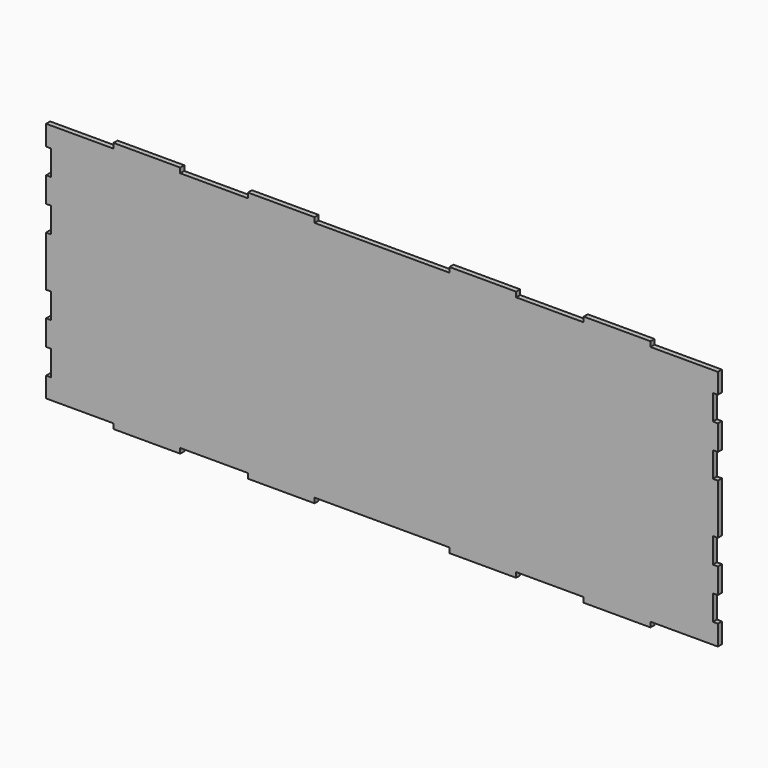
from build123d import *

# Parameters (mm, degrees)
F1_DEPTH = 3


with BuildPart() as f1:
    # F0 (on Front) → F1 (new body)
    with BuildSketch(Plane.XZ):
        Polygon((-159.875, -72), (-159.875, -75), (-120.125, -75), (-120.125, -72), (-79.875, -72), (-79.875, -75), (-40.125, -75), (-40.125, -72), (40.125, -72), (40.125, -75), (79.875, -75), (79.875, -72), (120.125, -72), (120.125, -75), (159.875, -75), (159.875, -72), (200, -72), (200, -60), (197, -60), (197, -45), (200, -45), (200, -30), (197, -30), (197, -15), (200, -15), (200, 15), (197, 15), (197, 30), (200, 30), (200, 45), (197, 45), (197, 60), (200, 60), (200, 72), (159.875, 72), (159.875, 75), (120.125, 75), (120.125, 72), (79.875, 72), (79.875, 75), (40.125, 75), (40.125, 72), (-40.125, 72), (-40.125, 75), (-79.875, 75), (-79.875, 72), (-120.125, 72), (-120.125, 75), (-159.875, 75), (-159.875, 72), (-200, 72), (-200, 60), (-197, 60), (-197, 45), (-200, 45), (-200, 30), (-197, 30), (-197, 15), (-200, 15), (-200, -15), (-197, -15), (-197, -30), (-200, -30), (-200, -45), (-197, -45), (-197, -60), (-200, -60), (-200, -72), align=None)
    extrude(amount=F1_DEPTH)


solid = f1.part
